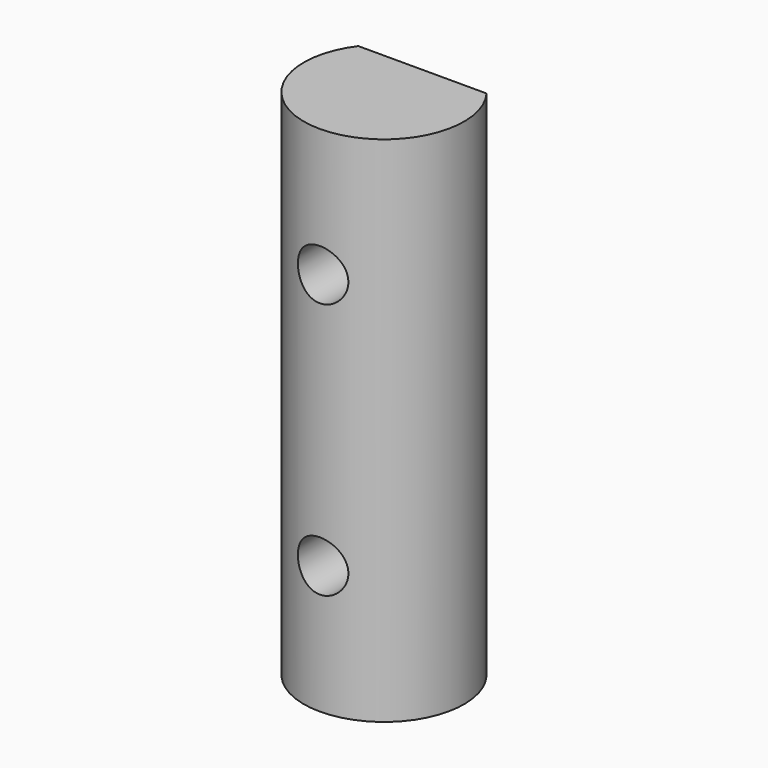
from build123d import *

# Parameters (mm, degrees)
F1_DEPTH       = 16
F3_D           = 3.15
F3_CBORE_D     = 6.5
F3_CBORE_DEPTH = 3


with BuildPart() as f1:
    # F0 (on Top) → F1 (new body, symmetric)
    with BuildSketch(Plane.XY):
        with BuildLine():
            Line((4, 3), (-4, 3))
            ThreePointArc((-4, 3), (0, -5), (4, 3))
        make_face()
    extrude(amount=F1_DEPTH, both=True)

    # F3 (through all)
    with Locations(Plane(origin=(0, 3, 0), x_dir=(-1, 0, 0), z_dir=(0, 1, 0))):
        with Locations((0, 8), (0, -8)):
            CounterBoreHole(F3_D / 2, F3_CBORE_D / 2, F3_CBORE_DEPTH)


solid = f1.part
